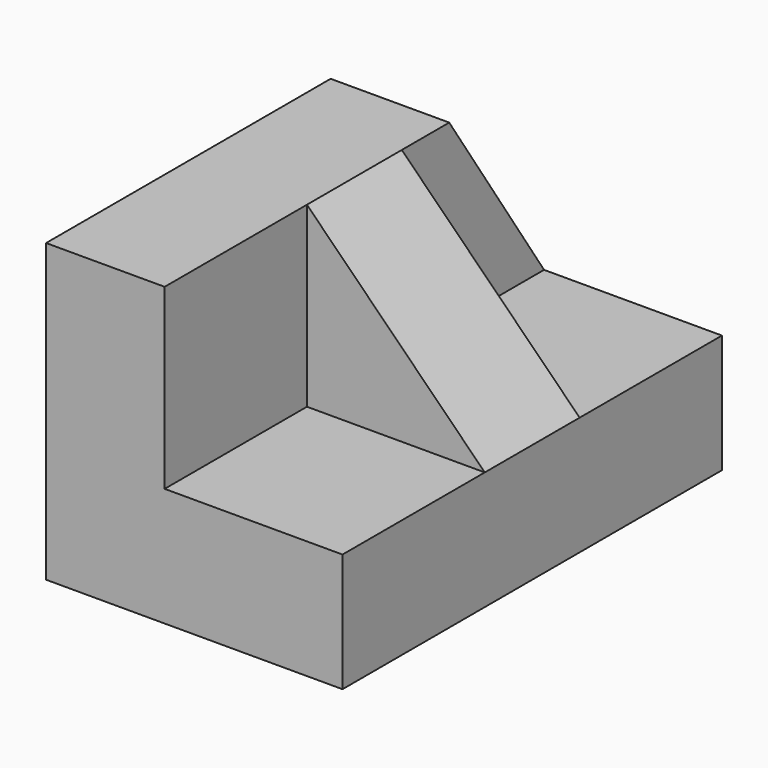
from build123d import *

# Parameters (mm, degrees)
F1_DEPTH = 50.8
F3_DEPTH = 25.4
F4_W     = 19.05
F4_H     = 12.7
F5_DEPTH = 19.05
F7_DEPTH = 25.4


with BuildPart() as f1:
    # F0 (on Front) → F1 (new body)
    with BuildSketch(Plane.XZ):
        Polygon((19.05, 0), (0, 0), (0, 19.05), (-12.7, 19.05), (-12.7, -12.7), (19.05, -12.7), align=None)
    extrude(amount=F1_DEPTH)

    # F2 (on face) → F3 (cut)
    with BuildSketch(Plane.YZ):
        Polygon((0, 19.05), (-12.7, 19.05), (0, 0), align=None)
    extrude(amount=-F3_DEPTH, mode=Mode.SUBTRACT)

    # F4 (on face) → F5 (join)
    with BuildSketch(Plane.XY):
        with Locations((9.525, -25.4)):
            Rectangle(F4_W, F4_H)
    extrude(amount=F5_DEPTH)

    # F6 (on face) → F7 (cut)
    with BuildSketch(Plane(origin=(0, -19.05, 0), x_dir=(-1, 0, 0), z_dir=(0, 1, 0))):
        Polygon((-19.05, 0), (0, 19.05), (-19.05, 19.05), align=None)
    extrude(amount=-F7_DEPTH, mode=Mode.SUBTRACT)


solid = f1.part
